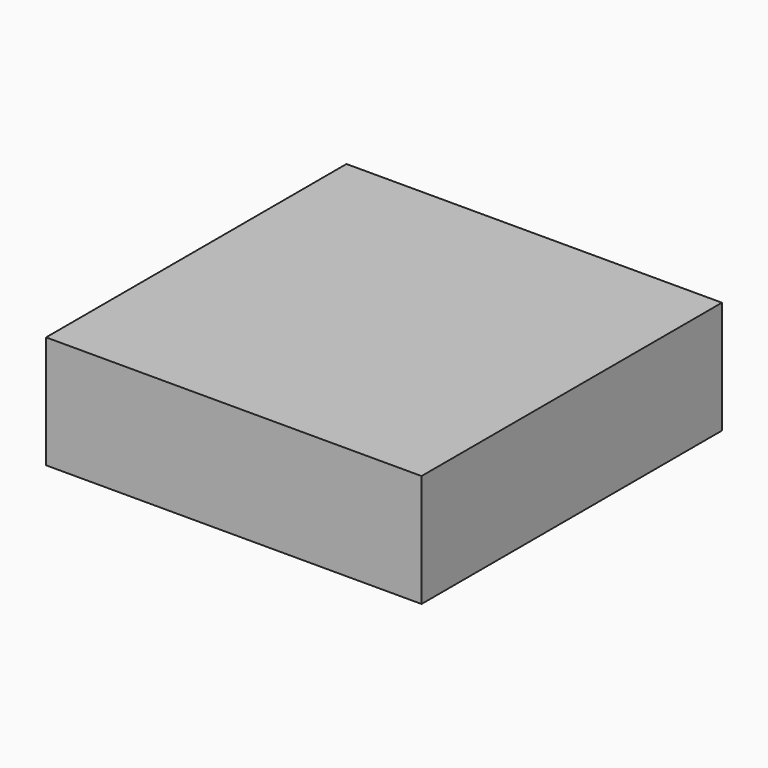
from build123d import *

# Parameters (mm, degrees)
BOX_W     = 10
BOX_H     = 10
BOX_DEPTH = 3


with BuildPart() as part:
    # Box → Box (new body)
    with BuildSketch(Plane.XY):
        with Locations((5, 5)):
            Rectangle(BOX_W, BOX_H)
    extrude(amount=BOX_DEPTH)


solid = part.part
